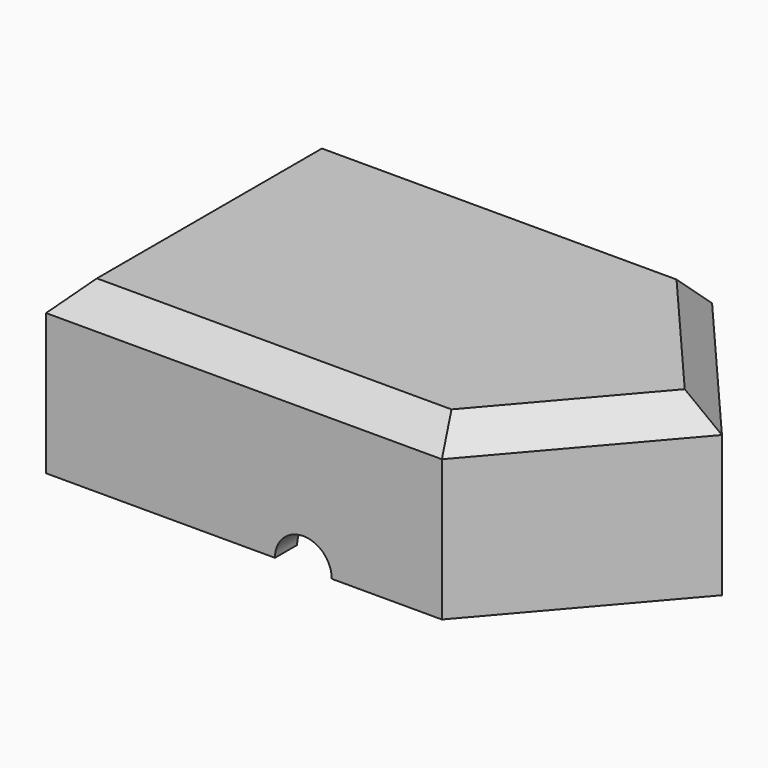
from build123d import *

# Parameters (mm, degrees)
F1_DEPTH = 30
F3_DEPTH = 20
F4_SIZE  = 5
F6_DEPTH = 100


with BuildPart() as f1:
    # F0 (on Top) → F1 (new body)
    with BuildSketch(Plane.XY):
        Polygon((-55.034131, 29.962024), (-55.034131, 0), (-55.034131, -29.884199), (15.098164, -29.884199), (40.813338, 0), (15.098164, 29.962024), align=None)
    extrude(amount=F1_DEPTH)

    # F2 (on face) → F3 (cut)
    with BuildSketch(Plane(origin=(0, 0, 0), x_dir=(1, 0, 0), z_dir=(0, 0, -1))):
        Polygon((35.202757, 0), (13.929292, 24.974938), (-50.124869, 24.974938), (-50.124869, -25.754089), (13.695518, -25.754089), align=None)
    extrude(amount=-F3_DEPTH, mode=Mode.SUBTRACT)

    # F4
    f4_edges = [f1.edges().sort_by_distance(p)[0] for p in [
        (27.955751, -14.942099, 30),
        (27.955751, 14.981012, 30),
        (-19.967983, 29.962024, 30),
        (-19.967983, -29.884199, 30),
        (-55.034131, 0.038913, 30),
    ]]
    chamfer(f4_edges, length=F4_SIZE)

    # F5 (on face) → F6 (cut)
    with BuildSketch(Plane(origin=(0, 29.962024, 0), x_dir=(-1, 0, 0), z_dir=(0, 1, 0))):
        with BuildLine():
            Line((4.414184, 0), (14.482094, 0))
            ThreePointArc((14.482094, 0), (9.448139, 5.033955), (4.414184, 0))
        make_face()
    extrude(amount=-F6_DEPTH, mode=Mode.SUBTRACT)


solid = f1.part
